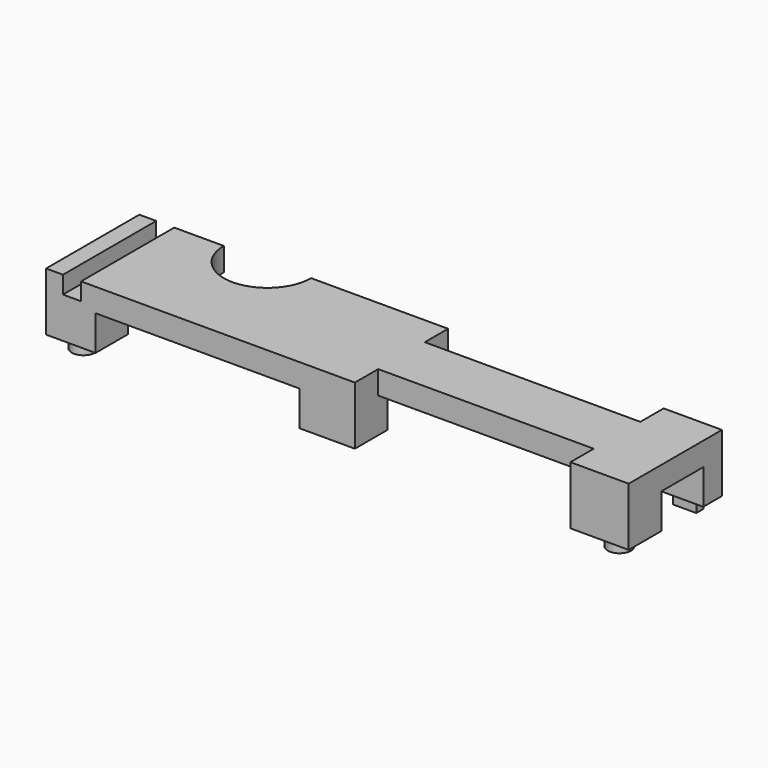
from build123d import *

# Parameters (mm, degrees)
PAD008_DEPTH    = 100
SKETCH013_R     = 2
SKETCH013_W     = 1.5
SKETCH013_H     = 4
PAD_DEPTH       = 2
SKETCH005_W     = 6
SKETCH005_H     = 37
SKETCH005_H_2   = 35
POCKET013_DEPTH = 20
SKETCH009_W     = 8
SKETCH009_H     = 3.1
POCKET014_DEPTH = 20
SKETCH007_W     = 5
SKETCH007_H     = 37
POCKET015_DEPTH = 5
SKETCH021_R     = 18
POCKET018_DEPTH = 5


with BuildPart() as part:
    # Sketch004 → Pad008 (new body)
    with BuildSketch(Plane.YZ.offset(100)):
        Polygon((7, 12), (16, 12), (16, 6), (20, 6), (20, 16), (0, 16), (0, 6), (7, 6), align=None)
    extrude(amount=-PAD008_DEPTH)

    # Sketch013 → Pad (new body)
    with BuildSketch(Plane(origin=(100, 0, 6), x_dir=(0, 1, 0), z_dir=(0, 0, -1))):
        with Locations((3, -4)):
            Circle(SKETCH013_R)
        with Locations((3, -96)):
            Circle(SKETCH013_R)
        with Locations((17.75, -4)):
            Rectangle(SKETCH013_W, SKETCH013_H)
    extrude(amount=PAD_DEPTH)

    # Sketch005 → Pocket013 (cut)
    with BuildSketch(Plane(origin=(100, 0, 0), x_dir=(0, 0, -1), z_dir=(0, -1, 0))):
        with Locations((-9, -28.5)):
            Rectangle(SKETCH005_W, SKETCH005_H)
        with Locations((-9, -74)):
            Rectangle(SKETCH005_W, SKETCH005_H_2)
    extrude(amount=-POCKET013_DEPTH, mode=Mode.SUBTRACT)

    # Sketch009 → Pocket014 (cut)
    with BuildSketch(Plane(origin=(100, 0, 0), x_dir=(0, 0, -1), z_dir=(0, -1, 0))):
        with Locations((-17, -95.55)):
            Rectangle(SKETCH009_W, SKETCH009_H)
    extrude(amount=-POCKET014_DEPTH, mode=Mode.SUBTRACT)

    # Sketch007 → Pocket015 (cut)
    with BuildSketch(Plane(origin=(100, 0, 16), x_dir=(0, -1, 0), z_dir=(0, 0, 1))):
        with BuildLine():
            ThreePointArc((-20, -85.5), (-12.499999, -78), (-20, -70.5))
            Line((-20, -85.5), (-20, -70.5))
        make_face()
        with Locations((-17.5, -28.5)):
            Rectangle(SKETCH007_W, SKETCH007_H)
        with Locations((-2.5, -28.5)):
            Rectangle(SKETCH007_W, SKETCH007_H)
    extrude(amount=-POCKET015_DEPTH, mode=Mode.SUBTRACT)

    # Sketch021 → Pocket018 (cut)
    with BuildSketch(Plane(origin=(100, 0, 6), x_dir=(0, 1, 0), z_dir=(0, 0, -1))):
        with Locations((20, -78)):
            Circle(SKETCH021_R)
    extrude(amount=-POCKET018_DEPTH, mode=Mode.SUBTRACT)


solid = part.part
